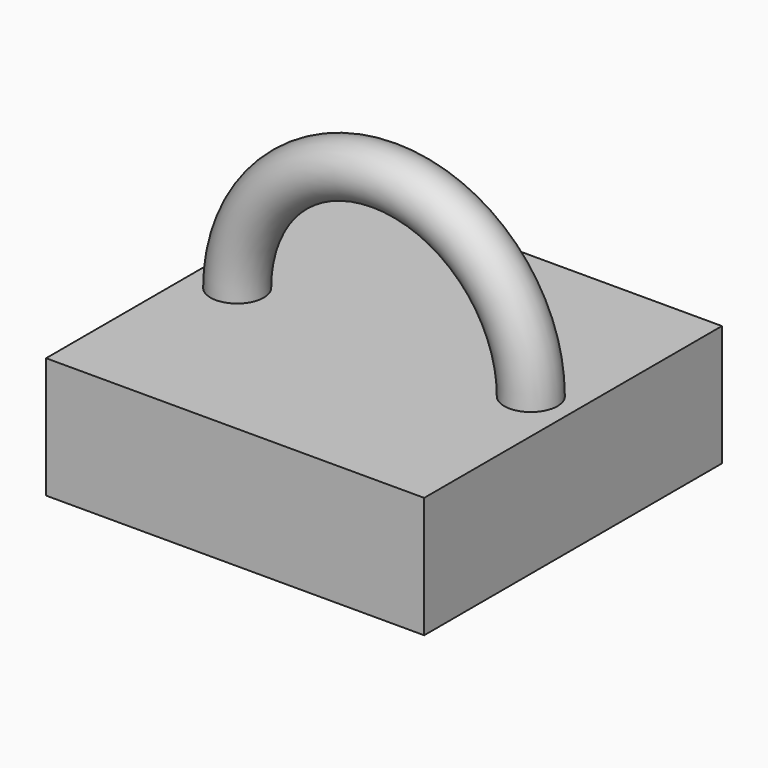
from build123d import *

# Parameters (mm, degrees)
F0_W     = 69.863096
F0_H     = 137.526572
F2_DEPTH = 44.704
F1_R     = 9.824635
F3_ANGLE = 180


with BuildPart() as f2:
    # F0 (on Top) → F2 (new body)
    with BuildSketch(Plane.XY):
        with Locations((34.931548, 0)):
            Rectangle(F0_W, F0_H)
        with Locations((-34.931548, 0)):
            Rectangle(F0_W, F0_H)
    extrude(amount=-F2_DEPTH)

    # F1 (on Top) → F3 (revolve)
    with BuildSketch(Plane.XY):
        with Locations((54.264009, 0)):
            Circle(F1_R)
    revolve(axis=Axis((0, 0, 0), (0, -1, 0)), revolution_arc=F3_ANGLE)


solid = f2.part
